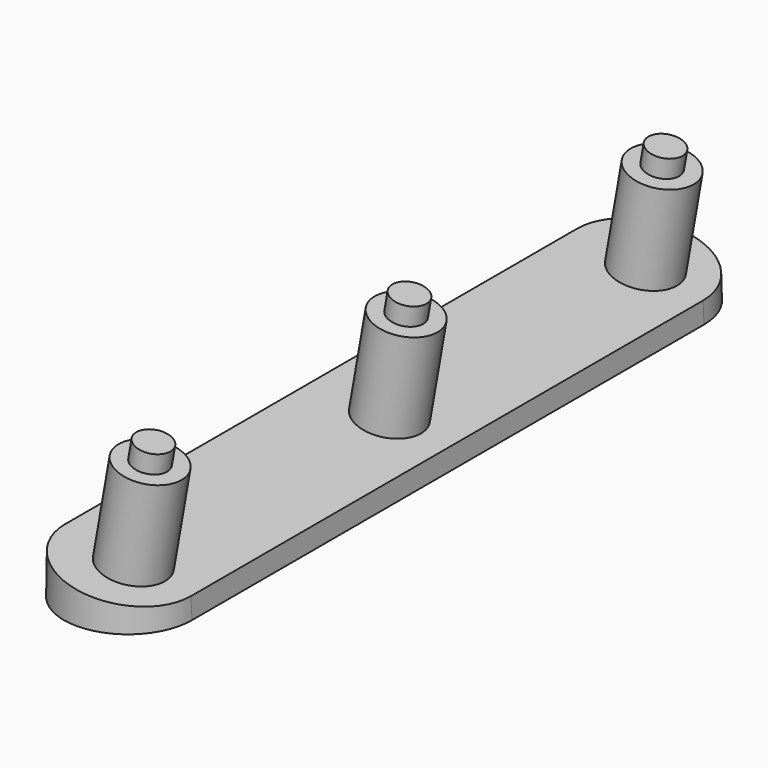
from build123d import *

# Parameters (mm, degrees)
SKETCH033_R  = 5
PAD010_DEPTH = 15
SKETCH035_R  = 2.7
PAD011_DEPTH = 18


with BuildPart() as part:
    # Sketch032 → AdditiveLoft section 0
    with BuildSketch(Plane.XY):
        with BuildLine():
            ThreePointArc((10, 50), (0, 60), (-10, 50))
            Line((-10, 50), (-10, -50))
            ThreePointArc((-10, -50), (0, -60), (10, -50))
            Line((10, 50), (10, -50))
        make_face()
    # Sketch034 → AdditiveLoft section 1
    with BuildSketch(Plane(origin=(0, 0, 5), x_dir=(0.984808, 0, -0.173648), z_dir=(0.173648, 0, 0.984808))):
        with BuildLine():
            ThreePointArc((10, 50), (0, 60), (-10, 50))
            Line((-10, 50), (-10, -50))
            ThreePointArc((-10, -50), (0, -60), (10, -50))
            Line((10, 50), (10, -50))
        make_face()
    loft()

    # Sketch033 (on Face3 of AdditiveLoft) → Pad010 (new body)
    with BuildSketch(Plane(origin=(0.85505, 0, 4.849232), x_dir=(0.984808, 0, -0.173648), z_dir=(0.173648, 0, 0.984808))):
        with Locations((0, 50)):
            Circle(SKETCH033_R)
        with Locations((0, -50)):
            Circle(SKETCH033_R)
        Circle(SKETCH033_R)
    extrude(amount=PAD010_DEPTH)

    # Sketch035 (on Face3 of AdditiveLoft) → Pad011 (join)
    with BuildSketch(Plane(origin=(0.85505, 0, 4.849232), x_dir=(0.984808, 0, -0.173648), z_dir=(0.173648, 0, 0.984808))):
        with Locations((0, 50)):
            Circle(SKETCH035_R)
        with Locations((0, -50)):
            Circle(SKETCH035_R)
        Circle(SKETCH035_R)
    extrude(amount=PAD011_DEPTH)


solid = part.part
